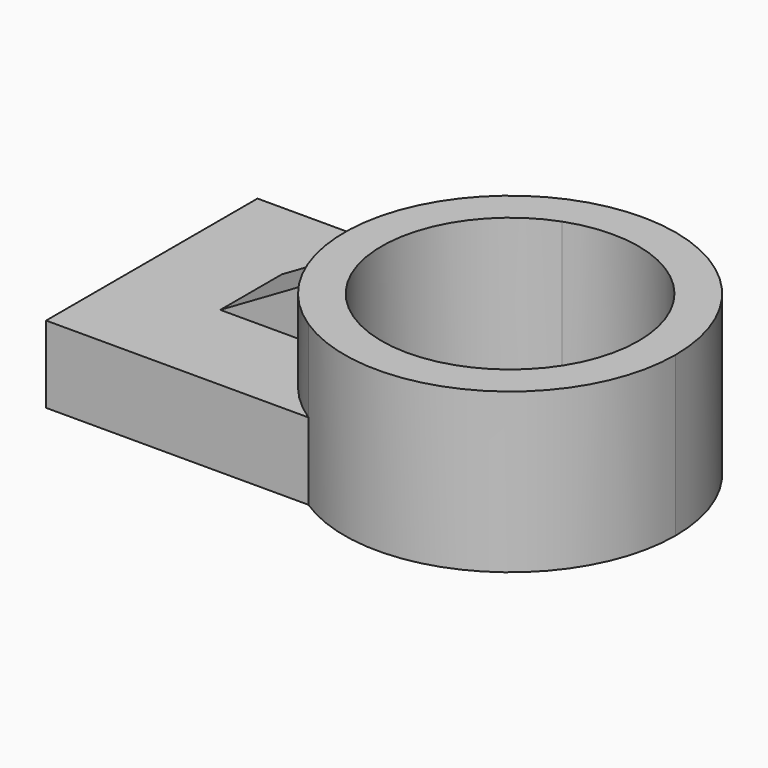
from build123d import *

# Parameters (mm, degrees)
F1_DEPTH = 52.578
F2_DEPTH = 25.4
F4_DEPTH = 25.4


with BuildPart() as f1:
    # F0 (on Top) → F1 (new body)
    with BuildSketch(Plane.XY):
        with BuildLine():
            ThreePointArc((54.722488, -11.844719), (22.859211, 37.874565), (-35.624544, 29.693728))
            Line((-35.624544, 29.693728), (-14.65048, 29.693728))
            Line((-14.65048, 29.693728), (-14.65048, 27.965855))
            ThreePointArc((-14.65048, 27.965855), (24.269676, 22.947539), (42.420731, -11.844719))
            ThreePointArc((42.420731, -11.844719), (24.269676, -46.636977), (-14.65048, -51.655293))
            Line((-14.65048, -51.655293), (-14.65048, -57.608001))
            Line((-14.65048, -57.608001), (-30.004545, -57.608001))
            ThreePointArc((-30.004545, -57.608001), (26.006031, -59.992793), (54.722488, -11.844719))
        make_face()
        with BuildLine():
            Line((-14.65048, 29.693728), (-35.624544, 29.693728))
            ThreePointArc((-35.624544, 29.693728), (-54.609453, -15.360171), (-30.004545, -57.608001))
            Line((-30.004545, -57.608001), (-14.65048, -57.608001))
            Line((-14.65048, -57.608001), (-14.65048, -51.655293))
            ThreePointArc((-14.65048, -51.655293), (-42.420731, -11.844719), (-14.65048, 27.965855))
            Line((-14.65048, 27.965855), (-14.65048, 29.693728))
        make_face()
    extrude(amount=F1_DEPTH)

    # F0 (on Top) → F2 (join)
    with BuildSketch(Plane.XY):
        with BuildLine():
            Line((-35.624544, 29.693728), (-116.681829, 29.693728))
            Line((-116.681829, 29.693728), (-116.681829, -57.608001))
            Line((-116.681829, -57.608001), (-30.004545, -57.608001))
            ThreePointArc((-30.004545, -57.608001), (-54.609453, -15.360171), (-35.624544, 29.693728))
        make_face()
        with BuildLine():
            ThreePointArc((54.722488, -11.844719), (22.859211, 37.874565), (-35.624544, 29.693728))
            Line((-35.624544, 29.693728), (-14.65048, 29.693728))
            Line((-14.65048, 29.693728), (-14.65048, 27.965855))
            ThreePointArc((-14.65048, 27.965855), (24.269676, 22.947539), (42.420731, -11.844719))
            ThreePointArc((42.420731, -11.844719), (24.269676, -46.636977), (-14.65048, -51.655293))
            Line((-14.65048, -51.655293), (-14.65048, -57.608001))
            Line((-14.65048, -57.608001), (-30.004545, -57.608001))
            ThreePointArc((-30.004545, -57.608001), (26.006031, -59.992793), (54.722488, -11.844719))
        make_face()
    extrude(amount=F2_DEPTH)

    # F3 (on Front) → F4 (join)
    with BuildSketch(Plane.XZ):
        Polygon((-54.646369, 25.746364), (-54.646369, 43.295454), (-84.895462, 25.746364), align=None)
    extrude(amount=F4_DEPTH)


solid = f1.part
